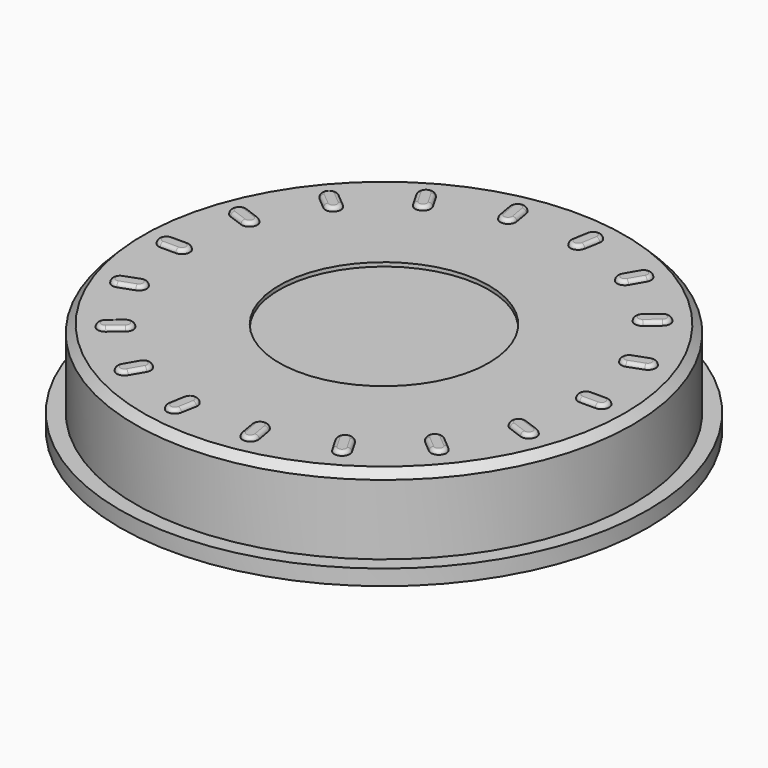
from build123d import *

# Parameters (mm, degrees)
SKETCH_R           = 11.4
PAD_DEPTH          = 1.25
SKETCH001_R        = 17
PAD001_DEPTH       = 1
SKETCH002_R        = 16
PAD002_DEPTH       = 5
SKETCH003_R        = 6.75
POCKET_DEPTH       = 0.25
SKETCH004_R        = 0.75
PAD003_DEPTH       = 1.5
SKETCH005_W        = 0.2
SKETCH005_H        = 1.2
SKETCH005_W_2      = 1.2
SKETCH005_H_2      = 0.2
PAD004_DEPTH       = 3.5
FILLET_R           = 0.59
CHAMFER_SIZE       = 0.2
CHAMFER001_SIZE    = 0.5
PAD005_DEPTH       = 0.25
POLARPATTERN_COUNT = 18
FILLET001_R        = 0.24


with BuildPart() as part:
    # Sketch → Pad (new body)
    with BuildSketch(Plane.XY):
        Circle(SKETCH_R)
    extrude(amount=PAD_DEPTH)

    # Sketch001 → Pad001 (new body)
    with BuildSketch(Plane.XY.offset(1.25)):
        Circle(SKETCH001_R)
    extrude(amount=PAD001_DEPTH)

    # Sketch002 → Pad002 (new body)
    with BuildSketch(Plane.XY.offset(2.25)):
        Circle(SKETCH002_R)
    extrude(amount=PAD002_DEPTH)

    # Sketch003 → Pocket (cut)
    with BuildSketch(Plane.XY.offset(7.25)):
        Circle(SKETCH003_R)
    extrude(amount=-POCKET_DEPTH, mode=Mode.SUBTRACT)

    # Sketch004 → Pad003 (new body)
    with BuildSketch(Plane(origin=(0, 0, 0), x_dir=(1, 0, 0), z_dir=(0, 0, -1))):
        with Locations((-4.5, 0)):
            Circle(SKETCH004_R)
        with Locations((4.5, 0)):
            Circle(SKETCH004_R)
    extrude(amount=PAD003_DEPTH)

    # Sketch005 → Pad004 (new body)
    with BuildSketch(Plane(origin=(0, 0, 0), x_dir=(1, 0, 0), z_dir=(0, 0, -1))):
        with Locations((-9.35, 0)):
            Rectangle(SKETCH005_W, SKETCH005_H)
        with Locations((9.35, 0)):
            Rectangle(SKETCH005_W, SKETCH005_H)
        with Locations((0, -9.15)):
            Rectangle(SKETCH005_W_2, SKETCH005_H_2)
        with Locations((0, 1.66)):
            Rectangle(SKETCH005_W_2, SKETCH005_H_2)
    extrude(amount=PAD004_DEPTH)

    # Fillet
    fillet_edges = [part.edges().sort_by_distance(p)[0] for p in [
        (-9.35, -0.6, -3.5),
        (-9.35, 0.6, -3.5),
        (-0.6, -1.66, -3.5),
        (0.6, -1.66, -3.5),
        (9.35, -0.6, -3.5),
        (9.35, 0.6, -3.5),
        (-0.6, 9.15, -3.5),
        (0.6, 9.15, -3.5),
    ]]
    fillet(fillet_edges, radius=FILLET_R)

    # Chamfer
    chamfer_edges = [part.edges().sort_by_distance(p)[0] for p in [
        (-5.25, 0, -1.5),
        (3.75, 0, -1.5),
    ]]
    chamfer(chamfer_edges, length=CHAMFER_SIZE)

    # Chamfer001
    chamfer001_edges = [part.edges().sort_by_distance(p)[0] for p in [
        (-16, 0, 7.25),
    ]]
    chamfer(chamfer001_edges, length=CHAMFER001_SIZE)

    # Sketch006 → Pad005 (new body)
    with BuildSketch(Plane.XY.offset(7.25)):
        with BuildLine():
            ThreePointArc((13, 0.5), (12.5, 0), (13, -0.5))
            Line((13, -0.5), (14, -0.5))
            ThreePointArc((14, -0.5), (14.5, 0), (14, 0.5))
            Line((13, 0.5), (14, 0.5))
        make_face()
    pad005 = extrude(amount=PAD005_DEPTH)

    # PolarPattern: Pad005 ×18 about axis
    polarpattern_axis = Axis((0, 0, 7.25), (0, 0, 1))
    for i in range(1, POLARPATTERN_COUNT):
        add(pad005.rotate(polarpattern_axis, i * 360 / POLARPATTERN_COUNT))

    # Fillet001
    fillet001_edges = [part.edges().sort_by_distance(p)[0] for p in [
        (13.5, -0.5, 7.5),
        (12.5, 0, 7.5),
        (13.5, 0.5, 7.5),
        (14.5, 0, 7.5),
        (12.85686, -4.147426, 7.5),
        (13.625543, -4.959292, 7.5),
        (12.51484, -5.087118, 7.5),
        (11.746158, -4.275252, 7.5),
        (9.575556, -8.034845, 7.5),
        (10.662994, -8.294611, 7.5),
        (11.107644, -9.32042, 7.5),
        (10.020206, -9.060655, 7.5),
        (6.25, -10.825318, 7.5),
        (7.183013, -11.441343, 7.5),
        (7.25, -12.557368, 7.5),
        (6.316987, -11.941343, 7.5),
        (2.170602, -12.310097, 7.5),
        (2.836654, -13.208081, 7.5),
        (2.517899, -14.279712, 7.5),
        (1.851847, -13.381729, 7.5),
        (-1.851847, -13.381729, 7.5),
        (-2.517899, -14.279712, 7.5),
        (-2.836654, -13.208081, 7.5),
        (-2.170602, -12.310097, 7.5),
        (-6.316987, -11.941343, 7.5),
        (-7.25, -12.557368, 7.5),
        (-7.183013, -11.441343, 7.5),
        (-6.25, -10.825318, 7.5),
        (-10.020206, -9.060655, 7.5),
        (-11.107644, -9.32042, 7.5),
        (-10.662994, -8.294611, 7.5),
        (-9.575556, -8.034845, 7.5),
        (-12.51484, -5.087118, 7.5),
        (-13.625543, -4.959292, 7.5),
        (-12.85686, -4.147426, 7.5),
        (-11.746158, -4.275252, 7.5),
        (-13.5, -0.5, 7.5),
        (-14.5, 0, 7.5),
        (-13.5, 0.5, 7.5),
        (-12.5, 0, 7.5),
        (-11.746158, 4.275252, 7.5),
        (-12.85686, 4.147426, 7.5),
        (-13.625543, 4.959292, 7.5),
        (-12.51484, 5.087118, 7.5),
        (-9.575556, 8.034845, 7.5),
        (-10.662994, 8.294611, 7.5),
        (-11.107644, 9.32042, 7.5),
        (-10.020206, 9.060655, 7.5),
        (-6.25, 10.825318, 7.5),
        (-7.183013, 11.441343, 7.5),
        (-7.25, 12.557368, 7.5),
        (-6.316987, 11.941343, 7.5),
        (-2.836654, 13.208081, 7.5),
        (-2.517899, 14.279712, 7.5),
        (-1.851847, 13.381729, 7.5),
        (-2.170602, 12.310097, 7.5),
        (1.851847, 13.381729, 7.5),
        (2.517899, 14.279712, 7.5),
        (2.836654, 13.208081, 7.5),
        (2.170602, 12.310097, 7.5),
        (6.316987, 11.941343, 7.5),
        (7.25, 12.557368, 7.5),
        (7.183013, 11.441343, 7.5),
        (6.25, 10.825318, 7.5),
        (10.020206, 9.060655, 7.5),
        (11.107644, 9.32042, 7.5),
        (10.662994, 8.294611, 7.5),
        (9.575556, 8.034845, 7.5),
        (12.51484, 5.087118, 7.5),
        (13.625543, 4.959292, 7.5),
        (12.85686, 4.147426, 7.5),
        (11.746158, 4.275252, 7.5),
    ]]
    fillet(fillet001_edges, radius=FILLET001_R)


solid = part.part
